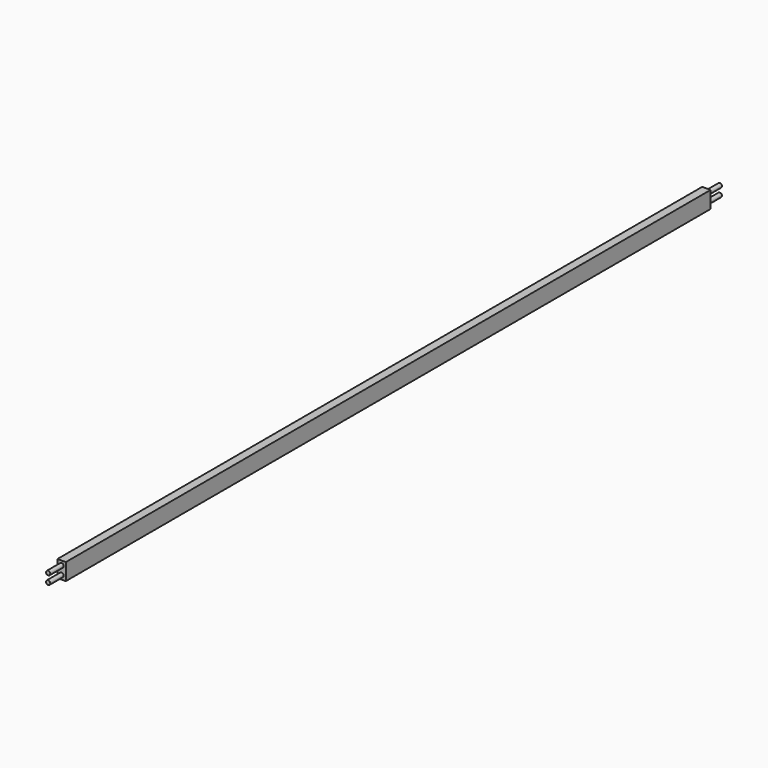
from build123d import *

# Parameters (mm, degrees)
SKETCH_W     = 10
SKETCH_H     = 20
PAD_DEPTH    = 960
SKETCH001_R  = 2.5
PAD001_DEPTH = 20
SKETCH002_R  = 2.5
PAD002_DEPTH = 20


with BuildPart() as part:
    # Sketch → Pad (new body)
    with BuildSketch(Plane.XZ):
        with Locations((5, -10)):
            Rectangle(SKETCH_W, SKETCH_H)
    extrude(amount=PAD_DEPTH)

    # Sketch001 (on Face6 of Pad) → Pad001 (join)
    with BuildSketch(Plane.XZ.offset(960)):
        with Locations((5, -5)):
            Circle(SKETCH001_R)
        with Locations((5, -15)):
            Circle(SKETCH001_R)
    extrude(amount=PAD001_DEPTH)

    # Sketch002 (on Face4 of Pad001) → Pad002 (join)
    with BuildSketch(Plane(origin=(0, 0, 0), x_dir=(1, 0, 0), z_dir=(0, 1, 0))):
        with Locations((5, 15)):
            Circle(SKETCH002_R)
        with Locations((5, 5)):
            Circle(SKETCH002_R)
    extrude(amount=PAD002_DEPTH)


solid = part.part
